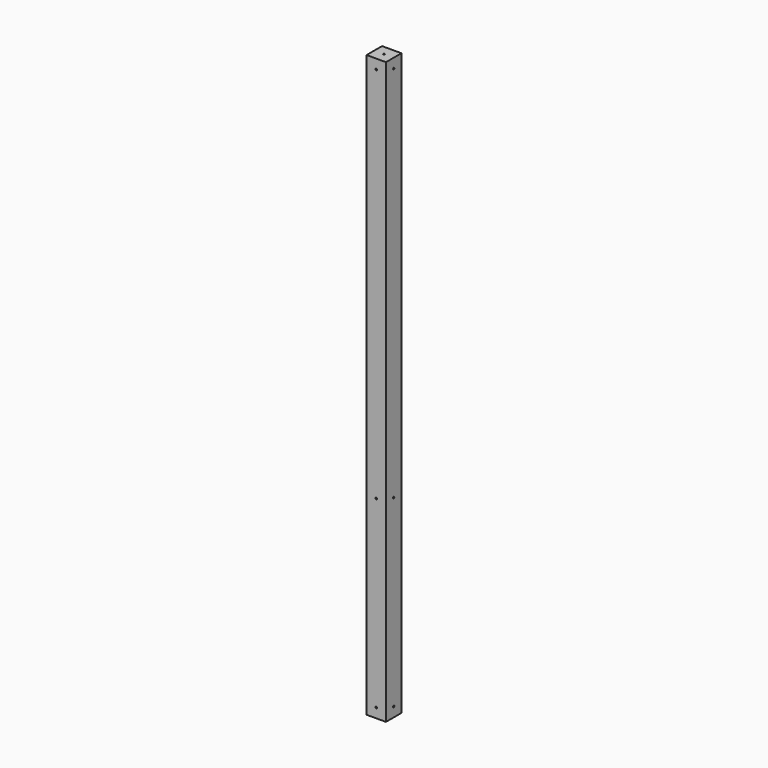
from build123d import *

# Parameters (mm, degrees)
F1_W           = 60
F1_H           = 60
F2_DEPTH       = 1800
F7_D           = 5
F7_DEPTH       = 12
F7_TIP         = 1.5021515476
F7_ON_F4_D     = 5
F7_ON_F4_DEPTH = 12
F7_ON_F4_TIP   = 1.5021515476
F8_D           = 5
F8_ON_F5_D     = 5


with BuildPart() as f2:
    # F1 (on Top) → F2 (new body)
    with BuildSketch(Plane.XY):
        Rectangle(F1_W, F1_H)
    extrude(amount=F2_DEPTH)

    # F7
    with Locations(Plane.XY.offset(1800)):
        with Locations((0, 0)):
            Hole(F7_D / 2, depth=F7_DEPTH)
            with Locations((0, 0, -(F7_DEPTH + F7_TIP / 2))):  # 118° drill point
                Cone(0, F7_D / 2, F7_TIP, mode=Mode.SUBTRACT)

    # F7 on F4
    with Locations(Plane(origin=(0, 0, 0), x_dir=(1, 0, 0), z_dir=(0, 0, -1))):
        with Locations((0, 0)):
            Hole(F7_ON_F4_D / 2, depth=F7_ON_F4_DEPTH)
            with Locations((0, 0, -(F7_ON_F4_DEPTH + F7_ON_F4_TIP / 2))):  # 118° drill point
                Cone(0, F7_ON_F4_D / 2, F7_ON_F4_TIP, mode=Mode.SUBTRACT)

    # F8 (through all)
    with Locations(Plane(origin=(0, 30, 0), x_dir=(-1, 0, 0), z_dir=(0, 1, 0))):
        with Locations((0, 1770), (0, 30), (0, 600)):
            Hole(F8_D / 2)

    # F8 on F5 (through all)
    with Locations(Plane.YZ.offset(30)):
        with Locations((0, 1770), (0, 30), (0, 600)):
            Hole(F8_ON_F5_D / 2)


solid = f2.part
